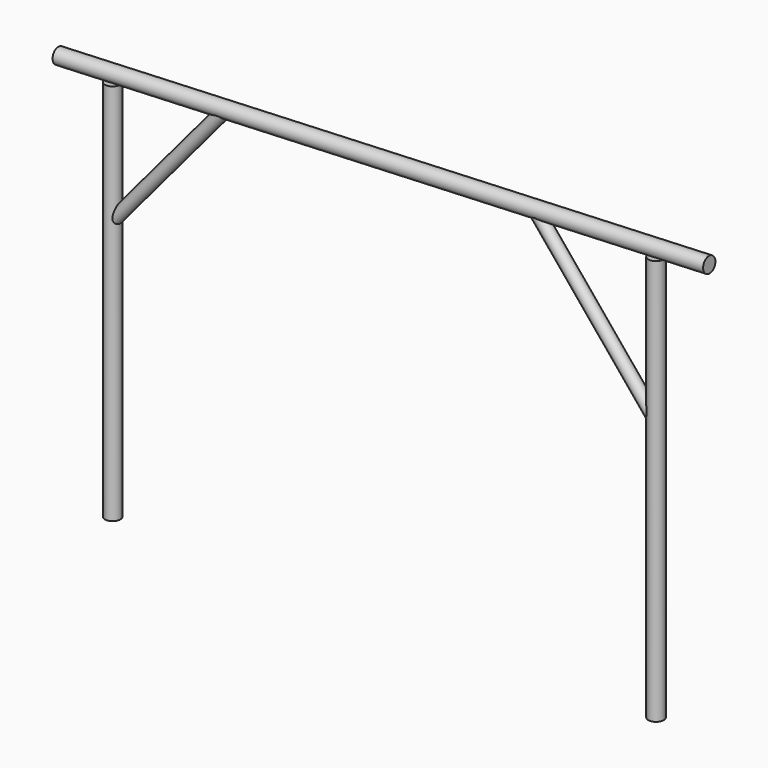
from build123d import *

# Parameters (mm, degrees)
F0_R     = 5
F1_DEPTH = 265
F2_R     = 5
F3_DEPTH = 250


with BuildPart() as f1:
    # F0 (on Top) → F1 (new body)
    with BuildSketch(Plane.XY):
        Circle(F0_R)
    extrude(amount=F1_DEPTH)


with BuildPart() as f3:
    # F2 (on Top) → F3 (new body)
    with BuildSketch(Plane.XY):
        with Locations((-355, 0)):
            Circle(F2_R)
    extrude(amount=F3_DEPTH)


with BuildPart() as f5:
    # F4 (on Front) → F5 (revolve)
    with BuildSketch(Plane.XZ):
        Polygon((-390.2112676056, 253.7323943662), (-390, 248.7323943662), (-360, 250), (-5, 265), (35, 266.6901408451), (34.7887323944, 271.6901408451), align=None)
    revolve(axis=Axis((-177.7112676056, 0, 262.7112676056), (0.9991085135, 0, 0.0422158527)))


with BuildPart() as f7:
    # F6 (on Front) → F7 (revolve)
    with BuildSketch(Plane.XZ):
        Polygon((-353.2274891088, 172.5755120417), (-350.1669764519, 170), (-280, 253.3802816901), (-285.4206267368, 253.1512411238), align=None)
    revolve(axis=Axis((-318.1440008829, 0, 214.2656528867), (-0.6438780104, 0, -0.7651281642)))


with BuildPart() as f8:
    # F6 (on Front) → F8 (revolve)
    with BuildSketch(Plane.XZ):
        Polygon((-74.9909414231, 262.0426362779), (-80, 261.8309859155), (-4.3136975728, 170), (-1.2269794909, 172.5440462816), align=None)
    revolve(axis=Axis((-39.0701307045, 0, 218.4595392393), (0.6360115704, 0, -0.7716795205)))


solid = Compound([f1.part, f3.part, f5.part, f7.part, f8.part])
